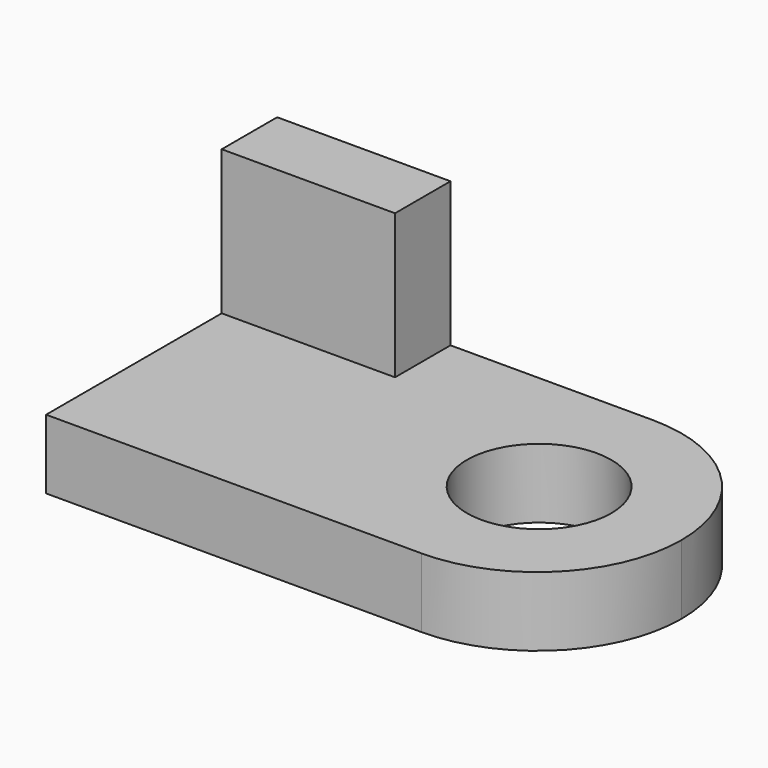
from build123d import *

# Parameters (mm, degrees)
F0_W     = 1651
F0_H     = 304.8
F1_DEPTH = 1270
F2_W     = 762
F2_H     = 304.8
F3_DEPTH = 635
F5_DEPTH = 304.8
F8_DEPTH = 576.58


with BuildPart() as f1:
    # F0 (on Front) → F1 (new body)
    with BuildSketch(Plane.XZ):
        with Locations((671.6712, 66.609716)):
            Rectangle(F0_W, F0_H)
    extrude(amount=F1_DEPTH)

    # F2 (on face) → F3 (join)
    with BuildSketch(Plane.XY.offset(219.009716)):
        with Locations((227.1712, -152.4)):
            Rectangle(F2_W, F2_H)
    extrude(amount=F3_DEPTH)

    # F4 (on face) → F5 (join)
    with BuildSketch(Plane.XY.offset(219.009716)):
        with BuildLine():
            ThreePointArc((1497.1712, -1270), (1946.184006, -1084.012806), (2132.1712, -635))
            ThreePointArc((2132.1712, -635), (1946.184006, -185.987194), (1497.1712, 0))
            Line((1497.1712, 0), (1497.1712, -1270))
        make_face()
    extrude(amount=-F5_DEPTH)

    # F7 (on face) → F8 (cut)
    with BuildSketch(Plane.XY.offset(219.009716)):
        with BuildLine():
            ThreePointArc((1497.1712, -947.168186), (1724.531189, -855.763664), (1819.093947, -629.698992))
            ThreePointArc((1819.093947, -629.698992), (1278.656705, -403.634319), (1497.1712, -947.168186))
        make_face()
    extrude(amount=-F8_DEPTH, mode=Mode.SUBTRACT)


solid = f1.part
